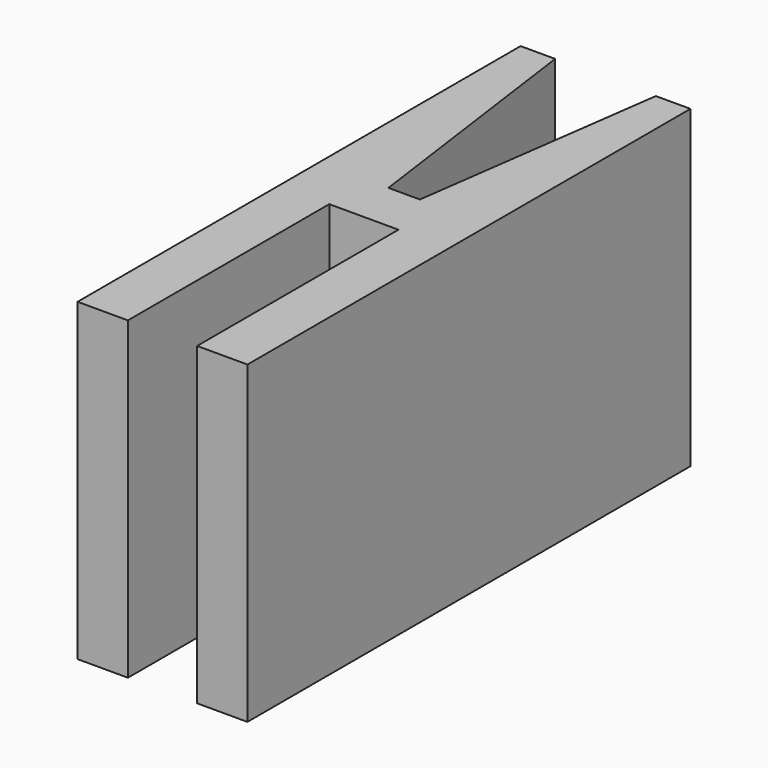
from build123d import *

# Parameters (mm, degrees)
PAD_DEPTH = 12.5


with BuildPart() as part:
    # Sketch → Pad (new body, symmetric)
    with BuildSketch(Plane.XY):
        Polygon((-6.75, 22), (-6.75, -22), (-2.75, -22), (-2.75, -2), (2.75, -2), (2.75, -22), (6.75, -22), (6.75, 22), (4, 22), (1.25, 2), (-1.25, 2), (-4, 22), align=None)
    extrude(amount=PAD_DEPTH, both=True)


solid = part.part
